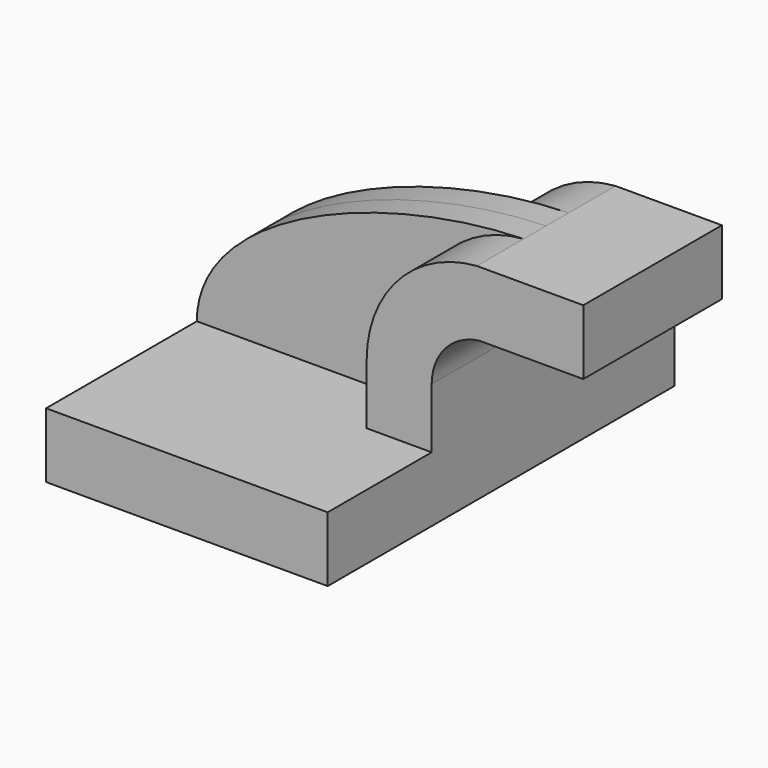
from build123d import *

# Parameters (mm, degrees)
F1_DEPTH = 63.5
F2_DEPTH = 8.255
F0_W     = 23.3708900283
F0_H     = 19.05
F3_DEPTH = 25.4


with BuildPart() as f1:
    # F0 (on Front) → F1 (new body, symmetric)
    with BuildSketch(Plane.XZ):
        Polygon((26.3337325305, 11.4268229101), (-37.1662674695, 11.4268229101), (-37.1662674695, -7.6231770899), (45.3837325305, -7.6231770899), (45.3837325305, 11.4268229101), align=None)
    extrude(amount=F1_DEPTH, both=True)

    # F0 (on Front) → F2 (join, symmetric)
    with BuildSketch(Plane.XZ):
        with BuildLine():
            add(Edge.make_bspline(
                [(58.6294981139, 63.8270229101), (17.0676354319, 62.8202483058), (-37.0535068214, 41.7246408761), (-37.1662674695, 11.4268229101)],
                knots=[0, 0, 0, 0, 109.1907031929, 109.1907031929, 109.1907031929, 109.1907031929], degree=3))
            Line((-37.1662674695, 11.4268229101), (26.3337325305, 11.4268229101))
            Line((26.3337325305, 11.4268229101), (26.3337325305, 29.0011309419))
            ThreePointArc((26.3337325305, 29.0011309419), (35.6503194891, 52.7490741476), (58.6294981139, 63.8270229101))
        make_face()
    extrude(amount=F2_DEPTH, both=True)

    # F0 (on Front) → F3 (join, symmetric)
    with BuildSketch(Plane.XZ):
        with BuildLine():
            Line((26.3337325305, 29.0011309419), (26.3337325305, 11.4268229101))
            Line((26.3337325305, 11.4268229101), (45.3837325305, 11.4268229101))
            Line((45.3837325305, 11.4268229101), (45.3837325305, 29.0011309419))
            ThreePointArc((45.3837325305, 29.0011309419), (49.4237818094, 39.5817531556), (59.4876149153, 44.7770229101))
            Line((59.4876149153, 44.7770229101), (66.4628425021, 44.7770229101))
            Line((66.4628425021, 44.7770229101), (66.4628425021, 63.8270229101))
            Line((66.4628425021, 63.8270229101), (58.6294981139, 63.8270229101))
            ThreePointArc((58.6294981139, 63.8270229101), (35.6503194891, 52.7490741476), (26.3337325305, 29.0011309419))
        make_face()
        with Locations((78.1482875163, 54.3020229101)):
            Rectangle(F0_W, F0_H)
    extrude(amount=F3_DEPTH, both=True)


solid = f1.part
